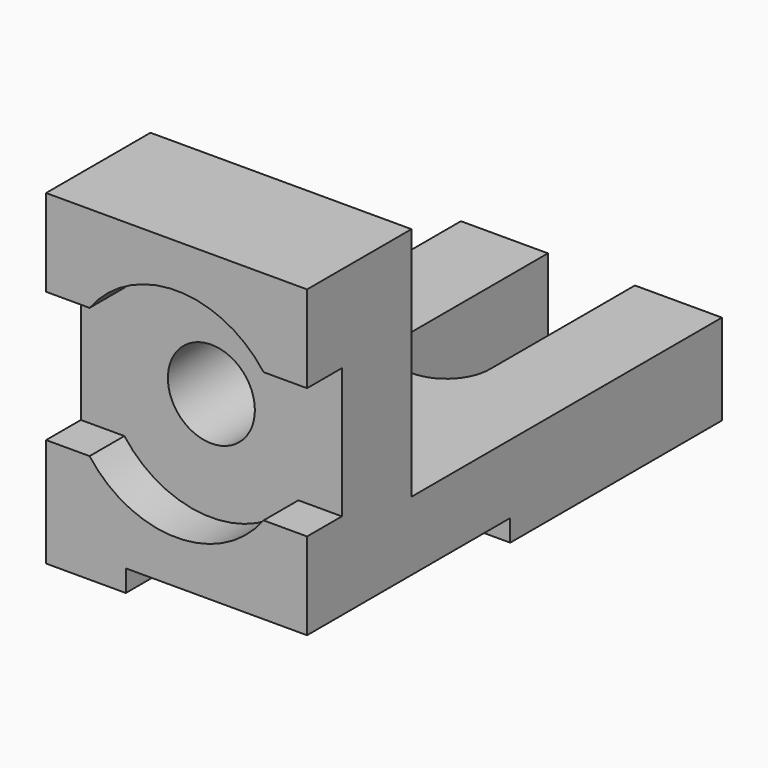
from build123d import *

# Parameters (mm, degrees)
F1_DEPTH  = 36
F2_W      = 22
F2_H      = 70.056442
F3_DEPTH  = 6
F4_R      = 12
F5_DEPTH  = 143.057441
F6_R      = 30
F7_DEPTH  = 12
F8_W      = 12
F8_H      = 36
F9_W      = 12
F9_H      = 36
F12_DEPTH = 25


with BuildPart() as f1:
    # F0 (on Right) → F1 (new body, symmetric)
    with BuildSketch(Plane.YZ):
        Polygon((-54.158381, 45.637498), (-90.158381, 45.637498), (-90.158381, -38.362502), (-20.101939, -38.362502), (-20.101939, -44.362502), (52.898061, -44.362502), (52.898061, -19.362502), (-54.158381, -19.362502), align=None)
    extrude(amount=F1_DEPTH, both=True)

    # F2 (on face) → F3 (join)
    with BuildSketch(Plane(origin=(0, 0, -38.362502), x_dir=(1, 0, 0), z_dir=(0, 0, -1))):
        with Locations((-25, 55.13016)):
            Rectangle(F2_W, F2_H)
    extrude(amount=F3_DEPTH)

    # F4 (on face) → F5 (cut, through all)
    with BuildSketch(Plane.XZ.offset(90.158381)):
        with Locations((0, 3.637498)):
            Circle(F4_R)
    extrude(amount=-F5_DEPTH, mode=Mode.SUBTRACT)

    # F6 (on face) → F7 (cut)
    with BuildSketch(Plane.XZ.offset(90.158381)):
        with Locations((0, 3.637498)):
            Circle(F6_R)
    extrude(amount=-F7_DEPTH, mode=Mode.SUBTRACT)

    # F8 (on face) → F10 section 0
    with BuildSketch(Plane.YZ.offset(36)):
        with Locations((-84.158381, 3.637498)):
            Rectangle(F8_W, F8_H)
    # F9 (on face) → F10 section 1
    with BuildSketch(Plane(origin=(-36, 0, 0), x_dir=(0, -1, 0), z_dir=(-1, 0, 0))):
        with Locations((84.158381, 3.637498)):
            Rectangle(F9_W, F9_H)
    loft(mode=Mode.SUBTRACT)

    # F11 (on face) → F12 (cut)
    with BuildSketch(Plane.XY.offset(-19.362502)):
        with BuildLine():
            Line((12, 2.898061), (12, 52.898061))
            Line((12, 52.898061), (-12, 52.898061))
            Line((-12, 52.898061), (-12, 2.898061))
            ThreePointArc((-12, 2.898061), (0, -9.101939), (12, 2.898061))
        make_face()
    extrude(amount=-F12_DEPTH, mode=Mode.SUBTRACT)


solid = f1.part
